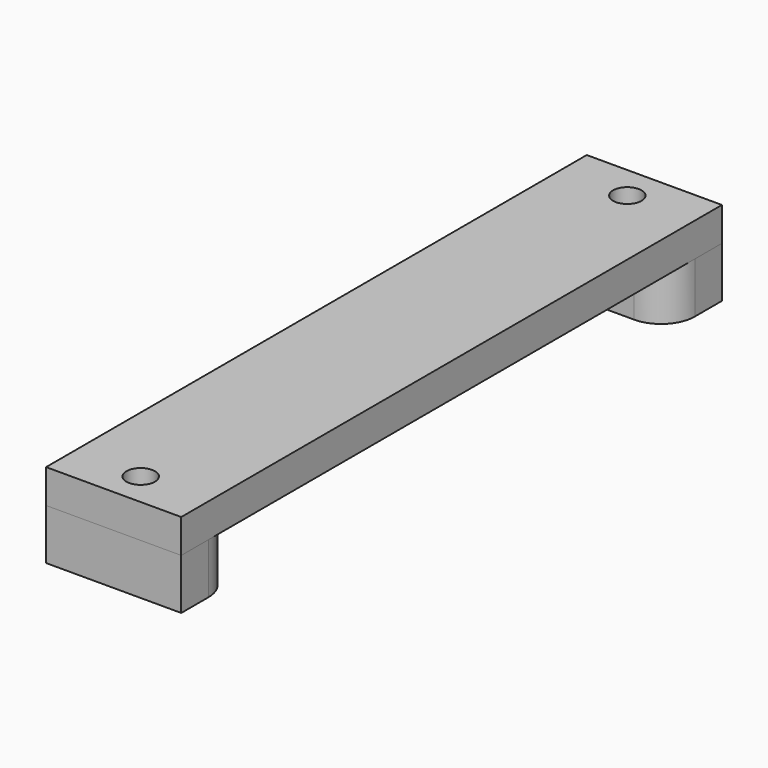
from build123d import *

# Parameters (mm, degrees)
F1_START = -12.7
F0_W     = 50.8
F0_H     = 25.4
F1_DEPTH = 19.05
F0_H_2   = 203.2
F2_DEPTH = 12.7
F4_R     = 12.7
F4_2_R   = 12.7
F5_D     = 10.715625
F5_2_D   = 10.715625
F5_3_D   = 10.715625


with BuildPart() as f1:
    # F0 (on Top) → F1 (new body)
    with BuildSketch(Plane.XY.offset(F1_START)):
        with Locations((0, 114.3)):
            Rectangle(F0_W, F0_H)
    extrude(amount=-F1_DEPTH)

    # F4#2
    f4_2_edges = [f1.edges().sort_by_distance(p)[0] for p in [
        (25.4, 101.6, -22.225),
    ]]
    fillet(f4_2_edges, radius=F4_2_R)

    # F5 (through all)
    with Locations(Plane.XY):
        with Locations((0, 114.3), (0, -114.3)):
            Hole(F5_D / 2)


with BuildPart() as f1b:
    # F0 (on Top) → F1, piece 2 (new body)
    with BuildSketch(Plane.XY.offset(F1_START)):
        with Locations((0, -114.3)):
            Rectangle(F0_W, F0_H)
    extrude(amount=-F1_DEPTH)

    # F4
    f4_edges = [f1b.edges().sort_by_distance(p)[0] for p in [
        (25.4, -101.6, -22.225),
    ]]
    fillet(f4_edges, radius=F4_R)

    # F5#2 (through all)
    with Locations(Plane.XY):
        with Locations((0, 114.3), (0, -114.3)):
            Hole(F5_2_D / 2)


with BuildPart() as f2:
    # F0 (on Top) → F2 (new body)
    with BuildSketch(Plane.XY):
        Rectangle(F0_W, F0_H_2)
        with Locations((0, 114.3)):
            Rectangle(F0_W, F0_H)
        with Locations((0, -114.3)):
            Rectangle(F0_W, F0_H)
    extrude(amount=-F2_DEPTH)

    # F5#3 (through all)
    with Locations(Plane.XY):
        with Locations((0, 114.3), (0, -114.3)):
            Hole(F5_3_D / 2)


solid = Compound([f1.part, f1b.part, f2.part])
